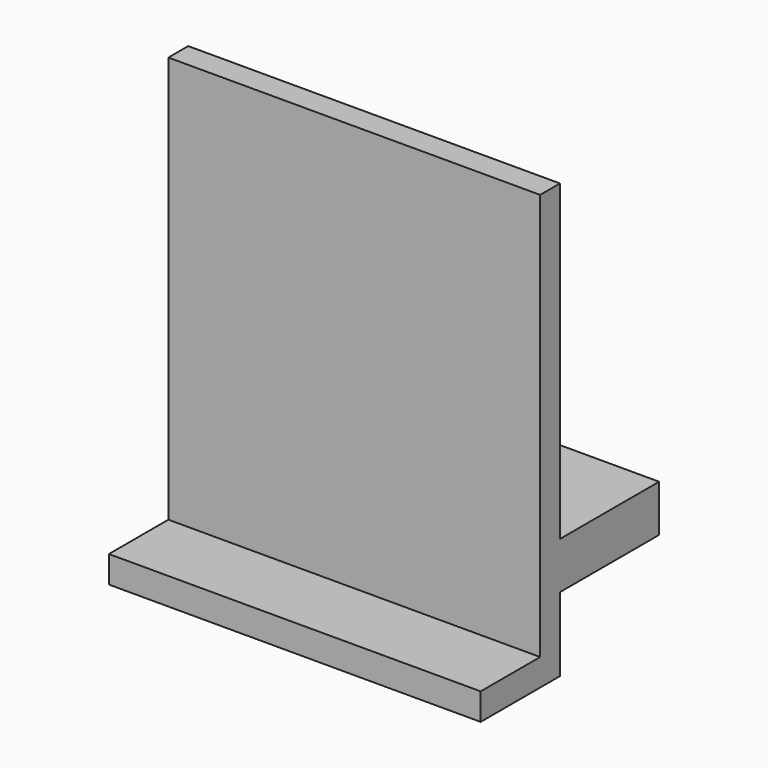
from build123d import *

# Parameters (mm, degrees)
F0_W     = 76.2
F0_H     = 88.9
F1_DEPTH = 5.08
F2_W     = 76.2
F2_H     = 5.516041
F3_DEPTH = 15.24
F4_W     = 76.2
F4_H     = 9.601522
F5_DEPTH = 25.4


with BuildPart() as f1:
    # F0 (on Front) → F1 (new body)
    with BuildSketch(Plane.XZ):
        Rectangle(F0_W, F0_H)
    extrude(amount=F1_DEPTH)

    # F2 (on face) → F3 (join)
    with BuildSketch(Plane.XZ.offset(5.08)):
        with Locations((0, -41.69198)):
            Rectangle(F2_W, F2_H)
    extrude(amount=F3_DEPTH)

    # F4 (on face) → F5 (join)
    with BuildSketch(Plane(origin=(0, 0, 0), x_dir=(-1, 0, 0), z_dir=(0, 1, 0))):
        with Locations((0, -24.494482)):
            Rectangle(F4_W, F4_H)
    extrude(amount=F5_DEPTH)


solid = f1.part
